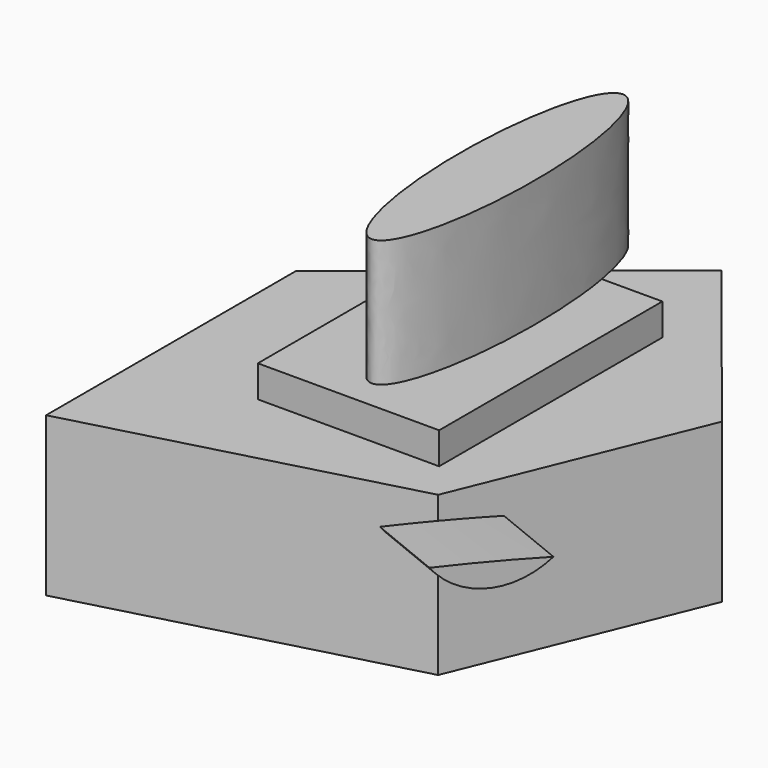
from build123d import *

# Parameters (mm, degrees)
F1_DEPTH = 50
F2_W     = 57.1348965168
F2_H     = 87.9178643227
F3_DEPTH = 10
F6_DEPTH = 40
F8_DEPTH = 25


with BuildPart() as f1:
    # F0 (on Top) → F1 (new body)
    with BuildSketch(Plane.XY):
        Polygon((-63.9714916625, -64.762532711), (37.8535538912, -37.6118868589), (68.0162161589, 36.4616066217), (17.6649838686, 99.2157459259), (-63.9714916625, 33.714136177), align=None)
    extrude(amount=F1_DEPTH)

    # F2 (on face) → F3 (join)
    with BuildSketch(Plane.XY.offset(50)):
        with Locations((0, 18.3492302895)):
            Rectangle(F2_W, F2_H)
    extrude(amount=F3_DEPTH)

    # F5 (on face) → F6 (join)
    with BuildSketch(Plane.XY.offset(60)):
        with BuildLine():
            add(Edge.make_bspline(
                [(0, 82.4430584908), (-20.4088208132, 82.4430584908), (-10.2044104066, 8.2821026444), (0, -65.8788532019), (10.2044104066, 8.2821026444), (20.4088208132, 82.4430584908), (0, 82.4430584908)],
                knots=[0, 0, 0, 2.0943951024, 2.0943951024, 4.1887902048, 4.1887902048, 6.2831853072, 6.2831853072, 6.2831853072], degree=2, weights=[1, 0.5, 1, 0.5, 1, 0.5, 1]))
        make_face()
    extrude(amount=F6_DEPTH)

    # F7 (on face) → F8 (join)
    with BuildSketch(Plane(origin=(45.6069427229, -18.5711075011, 0), x_dir=(0.3771314445, 0.9261597451, 0), z_dir=(0.9261597451, -0.3771314445, 0))):
        with BuildLine():
            ThreePointArc((-36.9825174786, 45.2865598738), (-20.6596339415, 35.4221068521), (-2.0221956928, 39.4705455521))
            ThreePointArc((-2.0221956928, 39.4705455521), (-19.4655950221, 42.5995281135), (-36.9825174786, 45.2865598738))
        make_face()
    extrude(amount=F8_DEPTH)


solid = f1.part
